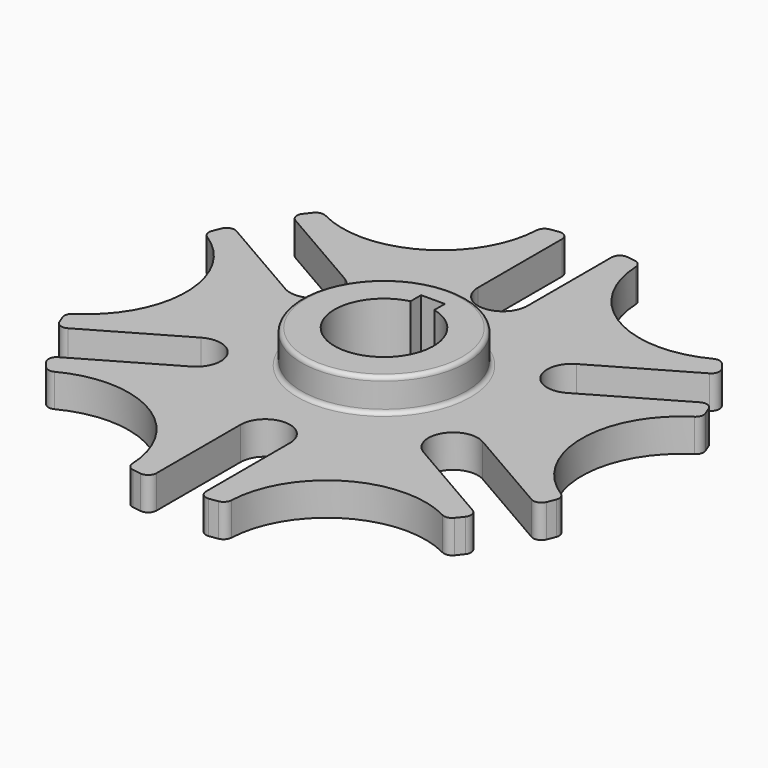
from build123d import *

# Parameters (mm, degrees)
F1_DEPTH = 12.7
F2_R     = 31.75
F3_DEPTH = 12.7
F5_DEPTH = 25.401
F6_R     = 1.5875
F7_R     = 3.175


with BuildPart() as f1:
    # F0 (on Top) → F1 (new body)
    with BuildSketch(Plane.XY):
        with BuildLine():
            ThreePointArc((-19.058606, 99.796441), (-38.1, 65.991136), (-76.89695, 66.403457))
            ThreePointArc((-76.89695, 66.403457), (-79.957389, 62.684734), (-82.838161, 58.825157))
            Line((-82.838161, 58.825157), (-44.730852, 36.823892))
            ThreePointArc((-44.730852, 36.823892), (-41.24446, 23.8125), (-54.255852, 20.326108))
            Line((-54.255852, 20.326108), (-92.363161, 42.327373))
            ThreePointArc((-92.363161, 42.327373), (-94.265267, 37.902763), (-95.955556, 33.392984))
            ThreePointArc((-95.955556, 33.392984), (-76.2, 0), (-95.955556, -33.392984))
            ThreePointArc((-95.955556, -33.392984), (-94.265267, -37.902763), (-92.363161, -42.327373))
            Line((-92.363161, -42.327373), (-54.255852, -20.326108))
            ThreePointArc((-54.255852, -20.326108), (-41.24446, -23.8125), (-44.730852, -36.823892))
            Line((-44.730852, -36.823892), (-82.838161, -58.825157))
            ThreePointArc((-82.838161, -58.825157), (-79.957389, -62.684734), (-76.89695, -66.403457))
            ThreePointArc((-76.89695, -66.403457), (-38.1, -65.991136), (-19.058606, -99.796441))
            ThreePointArc((-19.058606, -99.796441), (-14.307878, -100.587497), (-9.525, -101.15253))
            Line((-9.525, -101.15253), (-9.525, -57.15))
            ThreePointArc((-9.525, -57.15), (0, -47.625), (9.525, -57.15))
            Line((9.525, -57.15), (9.525, -101.15253))
            ThreePointArc((9.525, -101.15253), (14.307878, -100.587497), (19.058606, -99.796441))
            ThreePointArc((19.058606, -99.796441), (38.1, -65.991136), (76.89695, -66.403457))
            ThreePointArc((76.89695, -66.403457), (79.957389, -62.684734), (82.838161, -58.825157))
            Line((82.838161, -58.825157), (44.730852, -36.823892))
            ThreePointArc((44.730852, -36.823892), (41.24446, -23.8125), (54.255852, -20.326108))
            Line((54.255852, -20.326108), (92.363161, -42.327373))
            ThreePointArc((92.363161, -42.327373), (94.265267, -37.902763), (95.955556, -33.392984))
            ThreePointArc((95.955556, -33.392984), (76.2, 0), (95.955556, 33.392984))
            ThreePointArc((95.955556, 33.392984), (94.265267, 37.902763), (92.363161, 42.327373))
            Line((92.363161, 42.327373), (54.255852, 20.326108))
            ThreePointArc((54.255852, 20.326108), (41.24446, 23.8125), (44.730852, 36.823892))
            Line((44.730852, 36.823892), (82.838161, 58.825157))
            ThreePointArc((82.838161, 58.825157), (79.957389, 62.684734), (76.89695, 66.403457))
            ThreePointArc((76.89695, 66.403457), (38.1, 65.991136), (19.058606, 99.796441))
            ThreePointArc((19.058606, 99.796441), (14.307878, 100.587497), (9.525, 101.15253))
            Line((9.525, 101.15253), (9.525, 57.15))
            ThreePointArc((9.525, 57.15), (0, 47.625), (-9.525, 57.15))
            Line((-9.525, 57.15), (-9.525, 101.15253))
            ThreePointArc((-9.525, 101.15253), (-14.307878, 100.587497), (-19.058606, 99.796441))
        make_face()
    extrude(amount=F1_DEPTH)

    # F2 (on face) → F3 (join)
    with BuildSketch(Plane.XY.offset(12.7)):
        Circle(F2_R)
    extrude(amount=F3_DEPTH)

    # F4 (on face) → F5 (cut, through all)
    with BuildSketch(Plane.XY.offset(25.4)):
        with BuildLine():
            Line((-4.572, 23.573224), (-4.572, 18.493224))
            ThreePointArc((-4.572, 18.493224), (0, -19.05), (4.572, 18.493224))
            Line((4.572, 18.493224), (4.572, 23.573224))
            Line((4.572, 23.573224), (-4.572, 23.573224))
        make_face()
    extrude(amount=-F5_DEPTH, mode=Mode.SUBTRACT)

    # F6
    f6_edges = [f1.edges().sort_by_distance(p)[0] for p in [
        (-31.75, 0, 12.7),
        (-31.75, 0, 25.4),
    ]]
    fillet(f6_edges, radius=F6_R)

    # F7
    f7_edges = [f1.edges().sort_by_distance(p)[0] for p in [
        (-19.058606, -99.796441, 6.35),
        (-76.89695, -66.403457, 6.35),
        (-9.525, -101.15253, 6.35),
        (9.525, -101.15253, 6.35),
        (19.058606, -99.796441, 6.35),
        (76.89695, -66.403457, 6.35),
        (82.838161, -58.825157, 6.35),
        (92.363161, -42.327373, 6.35),
        (95.955556, -33.392984, 6.35),
        (95.955556, 33.392984, 6.35),
        (92.363161, 42.327373, 6.35),
        (82.838161, 58.825157, 6.35),
        (76.89695, 66.403457, 6.35),
        (19.058606, 99.796441, 6.35),
        (-9.525, 101.15253, 6.35),
        (-82.838161, 58.825157, 6.35),
        (-95.955556, 33.392984, 6.35),
        (-92.363161, -42.327373, 6.35),
        (9.525, 101.15253, 6.35),
        (-19.058606, 99.796441, 6.35),
        (-76.89695, 66.403457, 6.35),
        (-92.363161, 42.327373, 6.35),
        (-95.955556, -33.392984, 6.35),
        (-82.838161, -58.825157, 6.35),
    ]]
    fillet(f7_edges, radius=F7_R)


solid = f1.part
